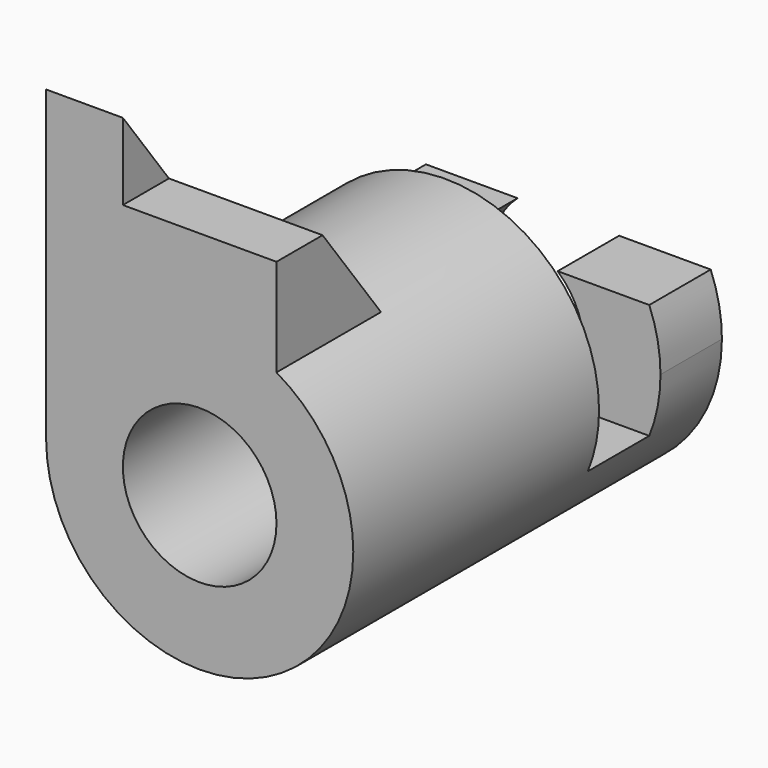
from build123d import *

# Parameters (mm, degrees)
F0_R          = 25.4
F0_R_2        = 12.7
F1_DEPTH      = 76.2
F3_DEPTH      = 25.401
F3_DEPTH_BACK = 25.401
F5_DEPTH      = 12.7
F5_DEPTH_BACK = 25.4
F6_R          = 12.7
F7_DEPTH      = 76.201
F8_W          = 25.4
F8_H          = 12.7
F9_DEPTH      = 25.4


with BuildPart() as f1:
    # F0 (on Front) → F1 (new body)
    with BuildSketch(Plane.XZ):
        Circle(F0_R)
        Circle(F0_R_2, mode=Mode.SUBTRACT)
    extrude(amount=F1_DEPTH)

    # F2 (on Right) → F3 (cut, two sides)
    with BuildSketch(Plane.YZ) as f3_sk:
        Polygon((0, 42.2577936794), (-25.4, 42.2577936794), (-25.4, -9.525), (-12.7, -9.525), (-12.7, 9.525), (0, 9.525), align=None)
    extrude(amount=-F3_DEPTH, mode=Mode.SUBTRACT)
    extrude(f3_sk.sketch, amount=F3_DEPTH_BACK, mode=Mode.SUBTRACT)

    # F4 (on Right) → F5 (join, two sides)
    with BuildSketch(Plane.YZ) as f5_sk:
        Polygon((-76.2, 50.8), (-76.2, 0), (-38.1, 0), align=None)
    extrude(amount=F5_DEPTH)
    extrude(f5_sk.sketch, amount=-F5_DEPTH_BACK)

    # F6 (on face) → F7 (cut, through all)
    with BuildSketch(Plane.XZ.offset(76.2)):
        Circle(F6_R)
    extrude(amount=-F7_DEPTH, mode=Mode.SUBTRACT)

    # F8 (on face) → F9 (cut)
    with BuildSketch(Plane.XZ.offset(76.2)):
        with Locations((0, 44.45)):
            Rectangle(F8_W, F8_H)
    extrude(amount=-F9_DEPTH, mode=Mode.SUBTRACT)


solid = f1.part
